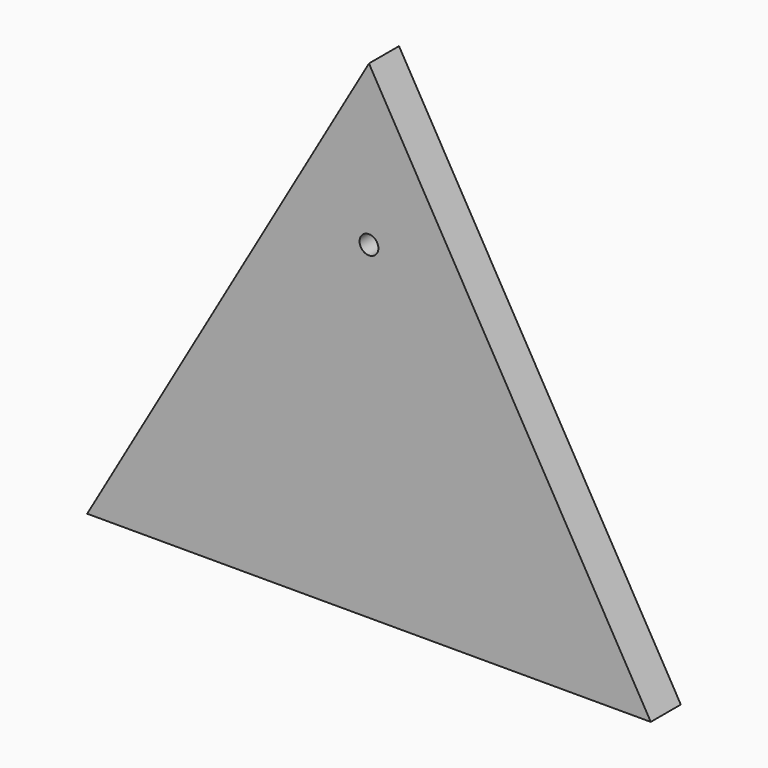
from build123d import *

# Parameters (mm, degrees)
F0_R     = 15.24
F1_DEPTH = 60.96
F2_DEPTH = 30.48


with BuildPart() as f1:
    # F0 (on Front) → F1 (new body)
    with BuildSketch(Plane.XZ):
        Polygon((457.2, 791.893629), (0, 0), (914.4, 0), align=None)
        with Locations((457.2, 532.813629)):
            Circle(F0_R, mode=Mode.SUBTRACT)
    extrude(amount=F1_DEPTH)

    # F0 (on Front) → F2 (join)
    with BuildSketch(Plane.XZ):
        Polygon((457.2, 791.893629), (0, 0), (914.4, 0), align=None)
        with Locations((457.2, 532.813629)):
            Circle(F0_R, mode=Mode.SUBTRACT)
    extrude(amount=F2_DEPTH)


solid = f1.part
